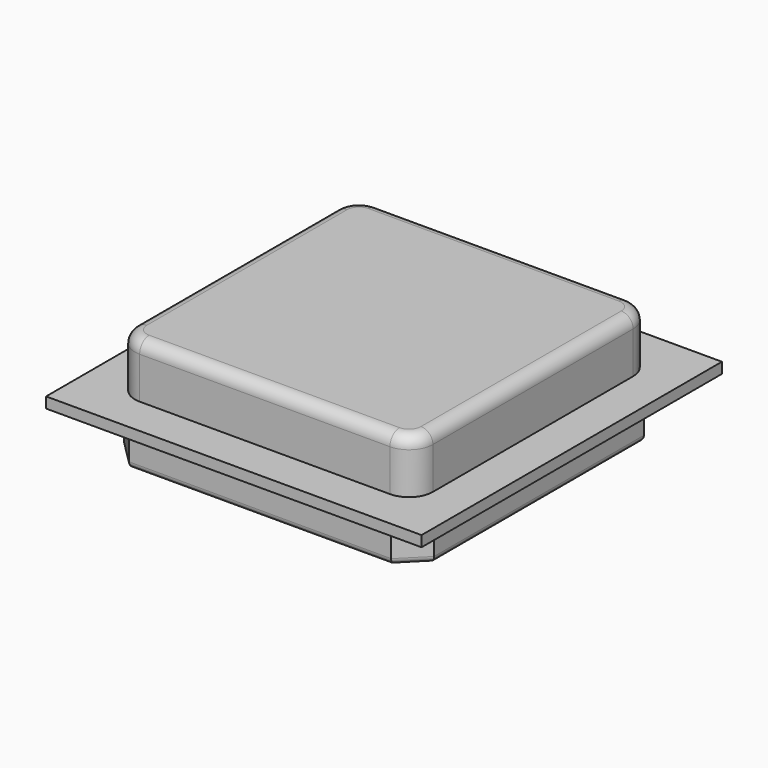
from build123d import *

# Parameters (mm, degrees)
SKETCH_W     = 31.5
SKETCH_H     = 31.5
PAD_DEPTH    = 0.9
SKETCH001_W  = 26
SKETCH001_H  = 26
PAD001_DEPTH = 4
SKETCH002_W  = 25
SKETCH002_H  = 25
PAD002_DEPTH = 4.5
FILLET_R     = 2
FILLET001_R  = 1
CHAMFER_SIZE = 2
FILLET002_R  = 0.5
SKETCH003_R  = 1.18907
POCKET_DEPTH = 2
SKETCH004_R  = 0.5
PAD003_DEPTH = 7


with BuildPart() as part:
    # Sketch → Pad (new body)
    with BuildSketch(Plane.XY):
        with Locations((-15.75, 15.75)):
            Rectangle(SKETCH_W, SKETCH_H)
    extrude(amount=PAD_DEPTH)

    # Sketch001 (on Face5 of Pad) → Pad001 (join)
    with BuildSketch(Plane(origin=(0, 0, 0), x_dir=(1, 0, 0), z_dir=(0, 0, -1))):
        with Locations((-15.75, -15.75)):
            Rectangle(SKETCH001_W, SKETCH001_H)
    extrude(amount=PAD001_DEPTH)

    # Sketch002 (on Face5 of Pad001) → Pad002 (join)
    with BuildSketch(Plane.XY.offset(0.9)):
        with Locations((-15.75, 15.75)):
            Rectangle(SKETCH002_W, SKETCH002_H)
    extrude(amount=PAD002_DEPTH)

    # Fillet
    fillet_edges = [part.edges().sort_by_distance(p)[0] for p in [
        (-3.25, 28.25, 3.15),
        (-3.25, 3.25, 3.15),
        (-28.25, 28.25, 3.15),
        (-28.25, 3.25, 3.15),
    ]]
    fillet(fillet_edges, radius=FILLET_R)

    # Fillet001
    fillet001_edges = [part.edges().sort_by_distance(p)[0] for p in [
        (-15.75, 28.25, 5.4),
        (-27.664214, 27.664214, 5.4),
        (-3.835786, 27.664214, 5.4),
        (-28.25, 15.75, 5.4),
        (-3.25, 15.75, 5.4),
        (-27.664214, 3.835786, 5.4),
        (-3.835786, 3.835786, 5.4),
        (-15.75, 3.25, 5.4),
    ]]
    fillet(fillet001_edges, radius=FILLET001_R)

    # Chamfer
    chamfer_edges = [part.edges().sort_by_distance(p)[0] for p in [
        (-2.75, 2.75, -2),
        (-2.75, 28.75, -2),
        (-28.75, 2.75, -2),
        (-28.75, 28.75, -2),
    ]]
    chamfer(chamfer_edges, length=CHAMFER_SIZE)

    # Fillet002
    fillet002_edges = [part.edges().sort_by_distance(p)[0] for p in [
        (-15.75, 2.75, -4),
        (-27.75, 3.75, -4),
        (-3.75, 3.75, -4),
        (-28.75, 15.75, -4),
        (-2.75, 15.75, -4),
        (-27.75, 27.75, -4),
        (-3.75, 27.75, -4),
        (-15.75, 28.75, -4),
    ]]
    fillet(fillet002_edges, radius=FILLET002_R)

    # Sketch003 (on Face7 of Fillet002) → Pocket (cut)
    with BuildSketch(Plane(origin=(0, 28.75, 0), x_dir=(-1, 0, 0), z_dir=(0, 1, 0))):
        with Locations((15.75, -1.5)):
            Circle(SKETCH003_R)
    extrude(amount=-POCKET_DEPTH, mode=Mode.SUBTRACT)

    # Sketch004 (on Face25 of Pocket) → Pad003 (join)
    with BuildSketch(Plane(origin=(0, 26.75, 0), x_dir=(-1, 0, 0), z_dir=(0, 1, 0))):
        with Locations((15.747266, -1.504022)):
            Circle(SKETCH004_R)
    extrude(amount=PAD003_DEPTH)


solid = part.part
